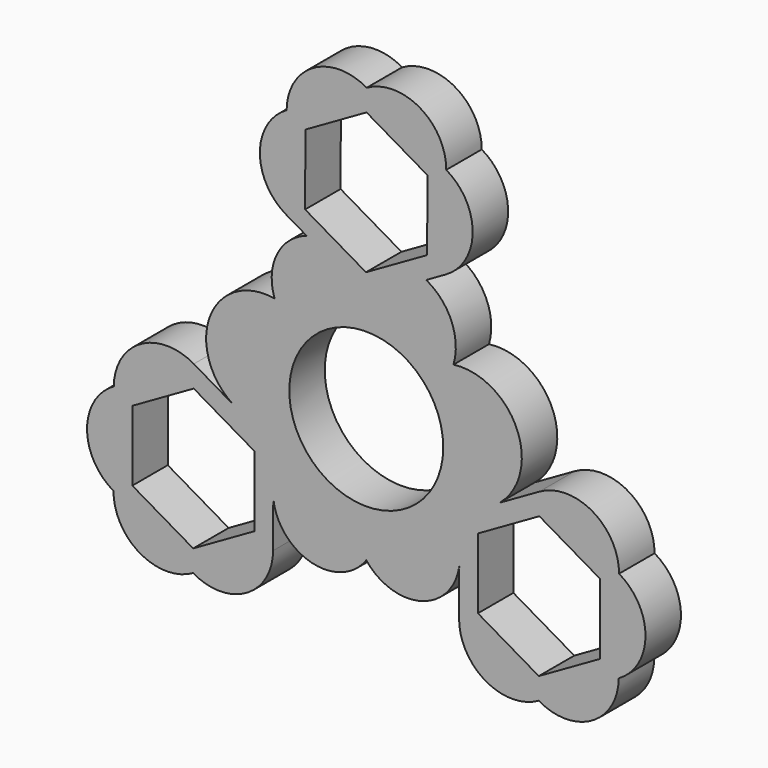
from build123d import *

# Parameters (mm, degrees)
F0_R     = 14.2875
F0_R_2   = 11.0236
F1_DEPTH = 6.35


with BuildPart() as f1:
    # F0 (on Front) → F1 (new body)
    with BuildSketch(Plane.XZ):
        with BuildLine():
            ThreePointArc((0.052564, 41.773122), (-7.567375, 41.80347), (-11.403627, 35.219583))
            Line((-11.403627, 35.219583), (0.052564, 41.773122))
        make_face()
        Polygon((0.052564, 41.773122), (-11.403627, 35.219583), (-11.456191, 22.021461), (-8.534462, 20.319048), (-0.052564, 15.376878), (8.586806, 20.319048), (11.403627, 21.930417), (11.456191, 35.128539), align=None)
        Polygon((-8.757622, 23.565183), (-8.71744, 33.654415), (0.040182, 38.664231), (8.757622, 33.584817), (8.71744, 23.495585), (-0.040182, 18.485769), align=None, mode=Mode.SUBTRACT)
        with BuildLine():
            Line((-11.456191, 22.021461), (-11.403627, 35.219583))
            ThreePointArc((-11.403627, 35.219583), (-15.239879, 28.635696), (-11.456191, 22.021461))
        make_face()
        with BuildLine():
            ThreePointArc((11.456191, 35.128539), (7.672504, 41.742775), (0.052564, 41.773122))
            Line((0.052564, 41.773122), (11.456191, 35.128539))
        make_face()
        with BuildLine():
            ThreePointArc((11.403627, 21.930417), (15.239879, 28.514304), (11.456191, 35.128539))
            Line((11.456191, 35.128539), (11.403627, 21.930417))
        make_face()
        with BuildLine():
            Line((-0.052564, 15.376878), (-8.534462, 20.319048))
            ThreePointArc((-8.534462, 20.319048), (-12.800156, 16.577999), (-13.126936, 10.913654))
            ThreePointArc((-13.126936, 10.913654), (-22.380073, 5.66998), (-18.992298, -4.411669))
            Line((-18.992298, -4.411669), (-13.290484, -7.733961))
            Line((-13.290484, -7.733961), (-13.316767, -14.333022))
            ThreePointArc((-13.316767, -14.333022), (-7.854296, -20.65549), (0, -17.805539))
            ThreePointArc((0, -17.805539), (7.832001, -20.409484), (13.316767, -14.241978))
            Line((13.316767, -14.241978), (13.343049, -7.642917))
            Line((13.343049, -7.642917), (19.071144, -4.366147))
            ThreePointArc((19.071144, -4.366147), (21.571506, 5.766311), (12.492773, 10.913654))
            ThreePointArc((12.492773, 10.913654), (12.206621, 16.30857), (8.586806, 20.319048))
            Line((8.586806, 20.319048), (-0.052564, 15.376878))
        make_face()
        Circle(F0_R, mode=Mode.SUBTRACT)
        Polygon((-13.290484, -7.733961), (-18.992298, -4.411669), (-24.694112, -1.089378), (-36.150303, -7.642917), (-36.202867, -20.841039), (-24.79924, -27.485622), (-13.343049, -20.932083), (-13.316767, -14.333022), align=None)
        Polygon((-33.464115, -9.208085), (-24.706494, -4.198269), (-15.989054, -9.277683), (-16.029236, -19.366915), (-24.786858, -24.376731), (-33.504298, -19.297317), align=None, mode=Mode.SUBTRACT)
        with BuildLine():
            Line((-36.150303, -7.642917), (-24.694112, -1.089378))
            ThreePointArc((-24.694112, -1.089378), (-32.314051, -1.05903), (-36.150303, -7.642917))
        make_face()
        Polygon((24.79924, -1.089378), (19.071144, -4.366147), (13.343049, -7.642917), (13.316767, -14.241978), (13.290484, -20.841039), (24.694112, -27.485622), (36.150303, -20.932083), (36.202867, -7.733961), align=None)
        Polygon((24.706494, -24.376731), (15.989054, -19.297317), (16.029236, -9.208085), (24.786858, -4.198269), (33.504298, -9.277683), (33.464115, -19.366915), align=None, mode=Mode.SUBTRACT)
        with BuildLine():
            Line((-36.202867, -20.841039), (-36.150303, -7.642917))
            ThreePointArc((-36.150303, -7.642917), (-39.986555, -14.226804), (-36.202867, -20.841039))
        make_face()
        with BuildLine():
            ThreePointArc((36.202867, -7.733961), (32.41918, -1.119725), (24.79924, -1.089378))
            Line((24.79924, -1.089378), (36.202867, -7.733961))
        make_face()
        with BuildLine():
            Line((-24.79924, -27.485622), (-36.202867, -20.841039))
            ThreePointArc((-36.202867, -20.841039), (-32.41918, -27.455275), (-24.79924, -27.485622))
        make_face()
        with BuildLine():
            ThreePointArc((-24.79924, -27.485622), (-17.1793, -27.51597), (-13.343049, -20.932083))
            Line((-13.343049, -20.932083), (-24.79924, -27.485622))
        make_face()
        with BuildLine():
            ThreePointArc((36.150303, -20.932083), (39.986555, -14.348196), (36.202867, -7.733961))
            Line((36.202867, -7.733961), (36.150303, -20.932083))
        make_face()
        with BuildLine():
            Line((24.694112, -27.485622), (13.290484, -20.841039))
            ThreePointArc((13.290484, -20.841039), (17.074172, -27.455275), (24.694112, -27.485622))
        make_face()
        with BuildLine():
            ThreePointArc((24.694112, -27.485622), (32.314051, -27.51597), (36.150303, -20.932083))
            Line((36.150303, -20.932083), (24.694112, -27.485622))
        make_face()
        Circle(F0_R)
        Circle(F0_R_2, mode=Mode.SUBTRACT)
    extrude(amount=F1_DEPTH)


solid = f1.part
